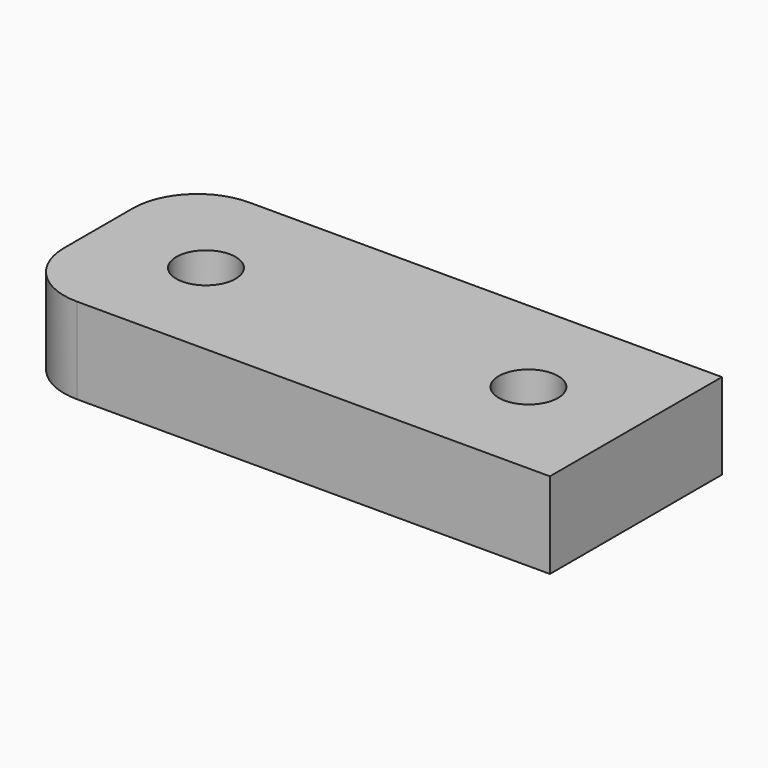
from build123d import *

# Parameters (mm, degrees)
CYLINDER043_R     = 1.38
CYLINDER043_DEPTH = 10
CYLINDER042_R     = 1.38
CYLINDER042_DEPTH = 10
BOX025_W          = 25
BOX025_H          = 10
BOX025_DEPTH      = 4
FILLET_R          = 3


with BuildPart() as cylinder043:
    # Cylinder043 → Cylinder043 (new body)
    with BuildSketch(Plane(origin=(25, 52, 59), x_dir=(1, 0, 0), z_dir=(0, 0, 1))):
        Circle(CYLINDER043_R)
    extrude(amount=CYLINDER043_DEPTH)


with BuildPart() as cylinder042:
    # Cylinder042 → Cylinder042 (new body)
    with BuildSketch(Plane(origin=(40, 52, 59), x_dir=(1, 0, 0), z_dir=(0, 0, 1))):
        Circle(CYLINDER042_R)
    extrude(amount=CYLINDER042_DEPTH)


with BuildPart() as fillet_body:
    # Box025 → Box025 (new body)
    with BuildSketch(Plane(origin=(45, 57, 62), x_dir=(-1, 0, 0), z_dir=(0, 0, 1))):
        with Locations((12.5, 5)):
            Rectangle(BOX025_W, BOX025_H)
    extrude(amount=BOX025_DEPTH)

    # Cut022: cut Cylinder042
    add(cylinder042.part, mode=Mode.SUBTRACT)

    # Cut023: cut Cylinder043
    add(cylinder043.part, mode=Mode.SUBTRACT)

    # Fillet
    fillet_edges = [fillet_body.edges().sort_by_distance(p)[0] for p in [
        (20, 57, 64),
        (20, 47, 64),
    ]]
    fillet(fillet_edges, radius=FILLET_R)


with BuildPart() as fillet_body_1:
    # Fillet placement: moved
    add(fillet_body.part.moved(Location((-2, 5, 0))))


solid = fillet_body_1.part
